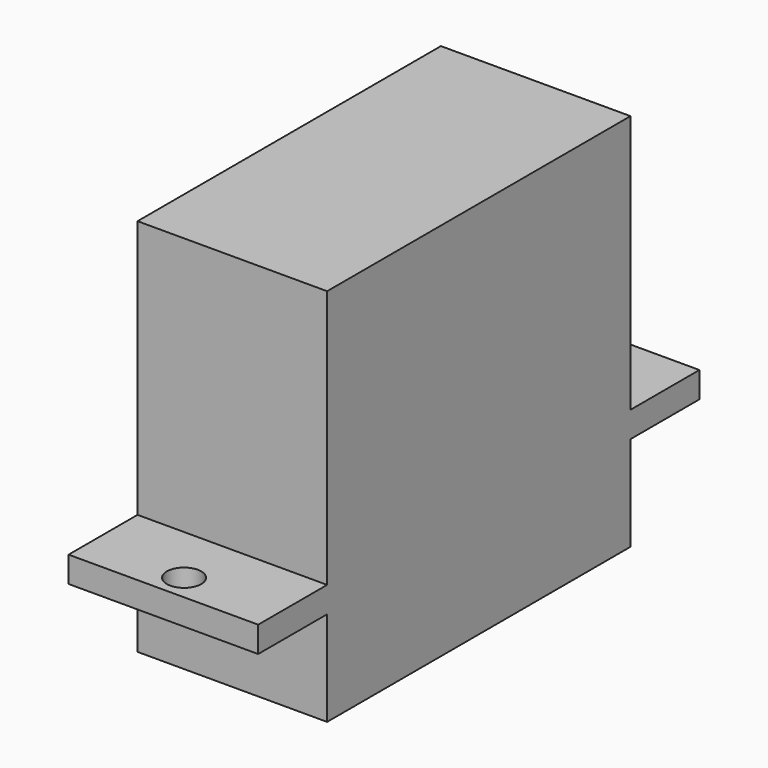
from build123d import *

# Parameters (mm, degrees)
F0_W     = 11
F0_H     = 22
F0_R     = 0.5
F1_DEPTH = 15
F0_H_2   = 5
F0_R_2   = 1
F2_DEPTH = 1.5
F3_DEPTH = 7


with BuildPart() as f1:
    # F0 (on Top) → F1 (new body)
    with BuildSketch(Plane.XY):
        Rectangle(F0_W, F0_H)
        with Locations((0, -5)):
            Circle(F0_R, mode=Mode.SUBTRACT)
        with Locations((0, -5)):
            Circle(F0_R)
    extrude(amount=F1_DEPTH)

    # F0 (on Top) → F2 (join)
    with BuildSketch(Plane.XY):
        with Locations((0, -13.5)):
            Rectangle(F0_W, F0_H_2)
        with Locations((0, -14.5)):
            Circle(F0_R_2, mode=Mode.SUBTRACT)
        with Locations((0, 13.5)):
            Rectangle(F0_W, F0_H_2)
        with Locations((0, 14.5)):
            Circle(F0_R_2, mode=Mode.SUBTRACT)
    extrude(amount=-F2_DEPTH)

    # F0 (on Top) → F3 (join)
    with BuildSketch(Plane.XY):
        Rectangle(F0_W, F0_H)
        with Locations((0, -5)):
            Circle(F0_R, mode=Mode.SUBTRACT)
    extrude(amount=-F3_DEPTH)


solid = f1.part
